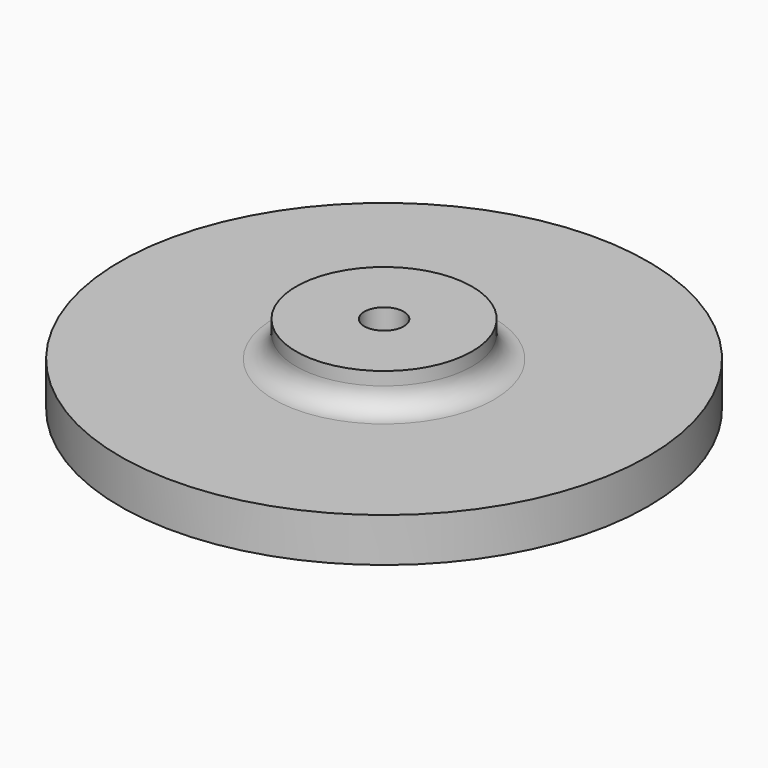
from build123d import *

# Parameters (mm, degrees)
SKETCH_R     = 30
PAD_DEPTH    = 5
SKETCH001_R  = 10
PAD001_DEPTH = 4
SKETCH002_R  = 2.25
POCKET_DEPTH = 9
FILLET_R     = 2.5


with BuildPart() as part:
    # Sketch → Pad (new body)
    with BuildSketch(Plane.XY):
        Circle(SKETCH_R)
    extrude(amount=PAD_DEPTH)

    # Sketch001 (on Face3 of Pad) → Pad001 (join)
    with BuildSketch(Plane.XY.offset(5)):
        Circle(SKETCH001_R)
    extrude(amount=PAD001_DEPTH)

    # Sketch002 (on Face5 of Pad001) → Pocket (cut)
    with BuildSketch(Plane.XY.offset(9)):
        Circle(SKETCH002_R)
    extrude(amount=-POCKET_DEPTH, mode=Mode.SUBTRACT)

    # Fillet
    fillet_edges = [part.edges().sort_by_distance(p)[0] for p in [
        (-10, 0, 5),
    ]]
    fillet(fillet_edges, radius=FILLET_R)


solid = part.part
